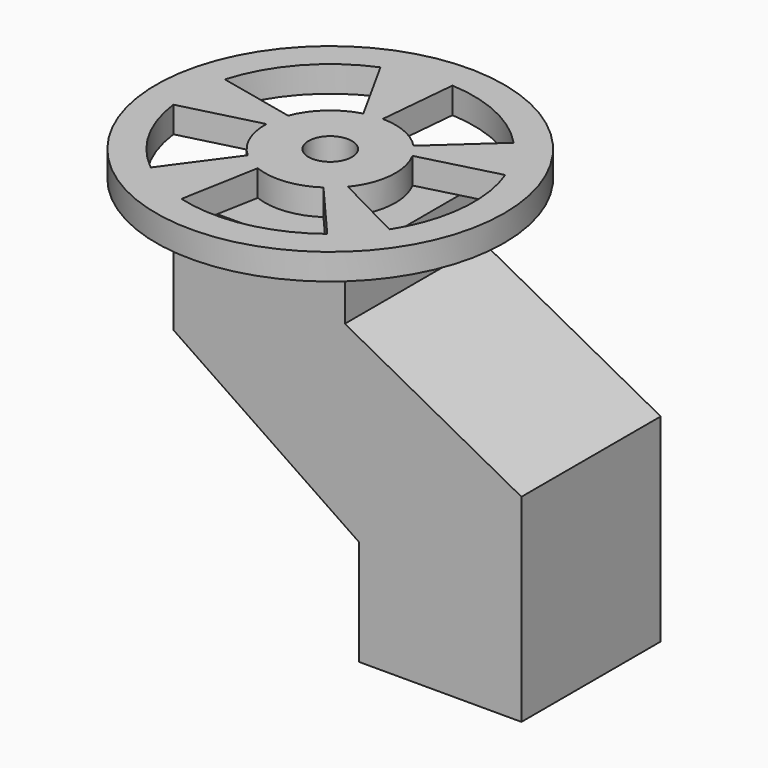
from build123d import *

# Parameters (mm, degrees)
F0_W     = 4000
F0_H     = 2000
F1_DEPTH = 4000
F3_DEPTH = 2000.001
F4_R     = 250
F5_DEPTH = 100
F6_R     = 2000
F6_R_2   = 250
F7_DEPTH = 300


with BuildPart() as f1:
    # F0 (on Top) → F1 (new body)
    with BuildSketch(Plane.XY):
        with Locations((-2000, 1000)):
            Rectangle(F0_W, F0_H)
    extrude(amount=F1_DEPTH)

    # F2 (on face) → F3 (cut, through all)
    with BuildSketch(Plane.XZ):
        Polygon((-4000, 0), (-1867.591262, 0), (-1867.591262, 1212.973237), (-4000, 2664.546013), align=None)
        Polygon((-2028.859377, 3368.016243), (0, 2277.239084), (0, 4000), (-2028.859377, 4000), align=None)
    extrude(amount=-F3_DEPTH, mode=Mode.SUBTRACT)

    # F4 (on face) → F5 (join)
    with BuildSketch(Plane.XY.offset(4000)):
        with Locations((-3014.429688, 1021.278024)):
            Circle(F4_R)
    extrude(amount=F5_DEPTH)


with BuildPart() as f7:
    # F6 (on face) → F7 (new body)
    with BuildSketch(Plane.XY.offset(4100)):
        with Locations((-3014.429688, 1021.278024)):
            Circle(F6_R)
        with BuildLine():
            ThreePointArc((-3764.128461, 1042.532435), (-3703.777403, 725.812748), (-3516.030461, 463.69694))
            Line((-3516.030461, 463.69694), (-4047.881339, -264.98699))
            ThreePointArc((-4047.881339, -264.98699), (-4454.735582, 216.281792), (-4651.482384, 814.980976))
            Line((-4651.482384, 814.980976), (-3764.128461, 1042.532435))
        make_face(mode=Mode.SUBTRACT)
        with BuildLine():
            ThreePointArc((-3288.831926, 323.278445), (-2932.299062, 275.788547), (-2594.655654, 399.755892))
            Line((-2594.655654, 399.755892), (-2004.596499, -283.6116))
            ThreePointArc((-2004.596499, -283.6116), (-2694.072541, -597.323625), (-3451.066861, -569.90015))
            Line((-3451.066861, -569.90015), (-3288.831926, 323.278445))
        make_face(mode=Mode.SUBTRACT)
        with BuildLine():
            ThreePointArc((-2432.260574, 548.436484), (-2267.690642, 951.415327), (-2354.655889, 1377.927058))
            Line((-2354.655889, 1377.927058), (-1472.296816, 1608.071177))
            ThreePointArc((-1472.296816, 1608.071177), (-1373.074274, 852.599619), (-1623.876358, 133.099305))
            Line((-1623.876358, 133.099305), (-2432.260574, 548.436484))
        make_face(mode=Mode.SUBTRACT)
        with BuildLine():
            Line((-3653.792696, 2542.368075), (-3212.580246, 1744.628808))
            ThreePointArc((-3212.580246, 1744.628808), (-3517.408192, 1577.616612), (-3714.206951, 1291.114608))
            Line((-3714.206951, 1291.114608), (-4597.405353, 1486.775657))
            ThreePointArc((-4597.405353, 1486.775657), (-4244.578513, 2120.929727), (-3653.792696, 2542.368075))
        make_face(mode=Mode.SUBTRACT)
        with Locations((-3014.429688, 1021.278024)):
            Circle(F6_R_2, mode=Mode.SUBTRACT)
        with BuildLine():
            ThreePointArc((-2928.079839, 2669.016991), (-2315.20795, 2515.797666), (-1804.834163, 2143.498441))
            Line((-1804.834163, 2143.498441), (-2470.263303, 1537.401018))
            ThreePointArc((-2470.263303, 1537.401018), (-2716.731548, 1709.66441), (-3011.05445, 1771.270429))
            Line((-3011.05445, 1771.270429), (-2928.079839, 2669.016991))
        make_face(mode=Mode.SUBTRACT)
    extrude(amount=F7_DEPTH)


solid = Compound([f1.part, f7.part])
